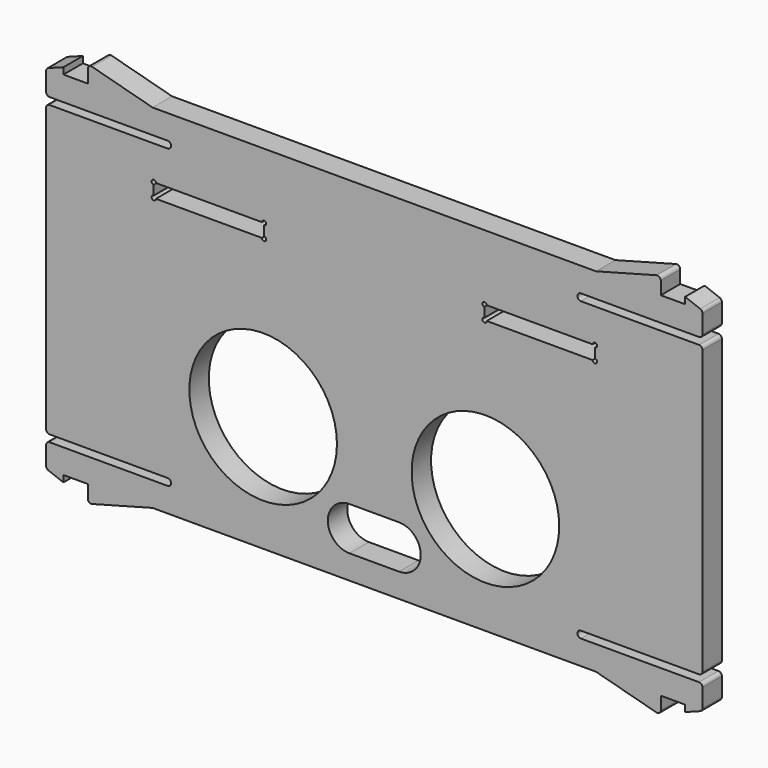
from build123d import *

# Parameters (mm, degrees)
PAD009_DEPTH    = 2.8
FILLET004_R     = 0.4
SKETCH025_W     = 12.7
SKETCH025_H     = 1.6
POCKET014_DEPTH = 2.801
SKETCH026_R     = 0.25
POCKET015_DEPTH = 2.801
SKETCH028_R     = 8.5
POCKET017_DEPTH = 2.801


with BuildPart() as part:
    # Sketch009 (on Face6 of ShapeBinder008) → Pad009 (new body)
    with BuildSketch(Plane.XZ.offset(60.388718)):
        with BuildLine():
            Line((37.8, 3.127675), (37.8, 0.327675))
            Line((37.8, 0.327675), (23.8, 0.327675))
            ThreePointArc((23.8, 0.327675), (23.4, -0.072325), (23.8, -0.472325))
            Line((23.8, -0.472325), (37.8, -0.472325))
            Line((37.8, -0.472325), (37.8, -33.872325))
            Line((37.8, -33.872325), (23.8, -33.872325))
            ThreePointArc((23.8, -33.872325), (23.4, -34.272325), (23.8, -34.672325))
            Line((23.8, -34.672325), (37.8, -34.672325))
            Line((37.8, -34.672325), (37.8, -37.472325))
            Line((37.8, -37.472325), (35.8, -38.222325))
            Line((35.8, -38.222325), (35.8, -37.472325))
            Line((35.8, -37.472325), (33, -37.472325))
            Line((33, -37.472325), (33, -39.472325))
            Line((33, -39.472325), (25.535898, -37.472325))
            Line((25.535898, -37.472325), (-25.535898, -37.472325))
            Line((-25.535898, -37.472325), (-33, -39.472325))
            Line((-33, -39.472325), (-33, -37.472325))
            Line((-33, -37.472325), (-35.8, -37.472325))
            Line((-35.8, -38.222325), (-35.8, -37.472325))
            Line((-37.8, -37.472325), (-35.8, -38.222325))
            Line((-37.8, -37.472325), (-37.8, -34.672325))
            Line((-37.8, -34.672325), (-23.8, -34.672325))
            ThreePointArc((-23.8, -34.672325), (-23.4, -34.272325), (-23.8, -33.872325))
            Line((-23.8, -33.872325), (-37.8, -33.872325))
            Line((-37.8, -33.872325), (-37.8, -0.472325))
            Line((-37.8, -0.472325), (-23.8, -0.472325))
            ThreePointArc((-23.8, -0.472325), (-23.4, -0.072325), (-23.8, 0.327675))
            Line((-23.8, 0.327675), (-37.8, 0.327675))
            Line((-37.8, 0.327675), (-37.8, 3.127675))
            Line((-37.8, 3.127675), (-35.8, 3.877675))
            Line((-35.8, 3.877675), (-35.8, 3.127675))
            Line((-35.8, 3.127675), (-33, 3.127675))
            Line((-33, 3.127675), (-33, 5.127675))
            Line((-33, 5.127675), (-25.535898, 3.127675))
            Line((-25.535898, 3.127675), (25.535898, 3.127675))
            Line((25.535898, 3.127675), (33, 5.127675))
            Line((33, 5.127675), (33, 3.127675))
            Line((33, 3.127675), (35.8, 3.127675))
            Line((35.8, 3.877675), (35.8, 3.127675))
            Line((37.8, 3.127675), (35.8, 3.877675))
        make_face()
    extrude(amount=-PAD009_DEPTH)

    # Fillet004
    fillet004_edges = [part.edges().sort_by_distance(p)[0] for p in [
        (33, -58.988718, 5.127675),
        (37.8, -58.988718, 3.127675),
        (37.8, -58.988718, 0.327675),
        (37.8, -58.988718, -0.472325),
        (37.8, -58.988718, -33.872325),
        (37.8, -58.988718, -34.672325),
        (37.8, -58.988718, -37.472325),
        (33, -58.988718, -39.472325),
        (-37.8, -58.988718, -33.872325),
        (-37.8, -58.988718, -34.672325),
        (-37.8, -58.988718, -37.472325),
        (-33, -58.988718, -39.472325),
        (-33, -58.988718, 5.127675),
        (-37.8, -58.988718, 3.127675),
        (-37.8, -58.988718, 0.327675),
        (-37.8, -58.988718, -0.472325),
    ]]
    fillet(fillet004_edges, radius=FILLET004_R)

    # Sketch025 (on Face2 of Fillet004) → Pocket014 (cut, through all)
    with BuildSketch(Plane.XZ.offset(60.388718)):
        with Locations((-19.05, -5.2)):
            Rectangle(SKETCH025_W, SKETCH025_H)
        with Locations((19.05, -5.2)):
            Rectangle(SKETCH025_W, SKETCH025_H)
    extrude(amount=-POCKET014_DEPTH, mode=Mode.SUBTRACT)

    # Sketch026 (on Face2 of Pocket014) → Pocket015 (cut, through all)
    with BuildSketch(Plane.XZ.offset(60.388718)):
        with Locations((-25.4, -4.4)):
            Circle(SKETCH026_R)
        with Locations((-12.7, -4.4)):
            Circle(SKETCH026_R)
        with Locations((-12.7, -6)):
            Circle(SKETCH026_R)
        with Locations((-25.4, -6)):
            Circle(SKETCH026_R)
        with Locations((12.7, -4.4)):
            Circle(SKETCH026_R)
        with Locations((12.7, -6)):
            Circle(SKETCH026_R)
        with Locations((25.4, -4.4)):
            Circle(SKETCH026_R)
        with Locations((25.4, -6)):
            Circle(SKETCH026_R)
    extrude(amount=-POCKET015_DEPTH, mode=Mode.SUBTRACT)

    # Sketch028 (on Face2 of Pocket015) → Pocket017 (cut, through all)
    with BuildSketch(Plane.XZ.offset(60.388718)):
        with Locations((-12.8, -24.1)):
            Circle(SKETCH028_R)
        with Locations((12.8, -24.1)):
            Circle(SKETCH028_R)
        with BuildLine():
            ThreePointArc((-2.85, -29.7), (-5.35, -32.2), (-2.85, -34.7))
            Line((-2.85, -34.7), (2.85, -34.7))
            ThreePointArc((2.85, -34.7), (5.35, -32.2), (2.85, -29.7))
            Line((-2.85, -29.7), (2.85, -29.7))
        make_face()
    extrude(amount=-POCKET017_DEPTH, mode=Mode.SUBTRACT)


solid = part.part
